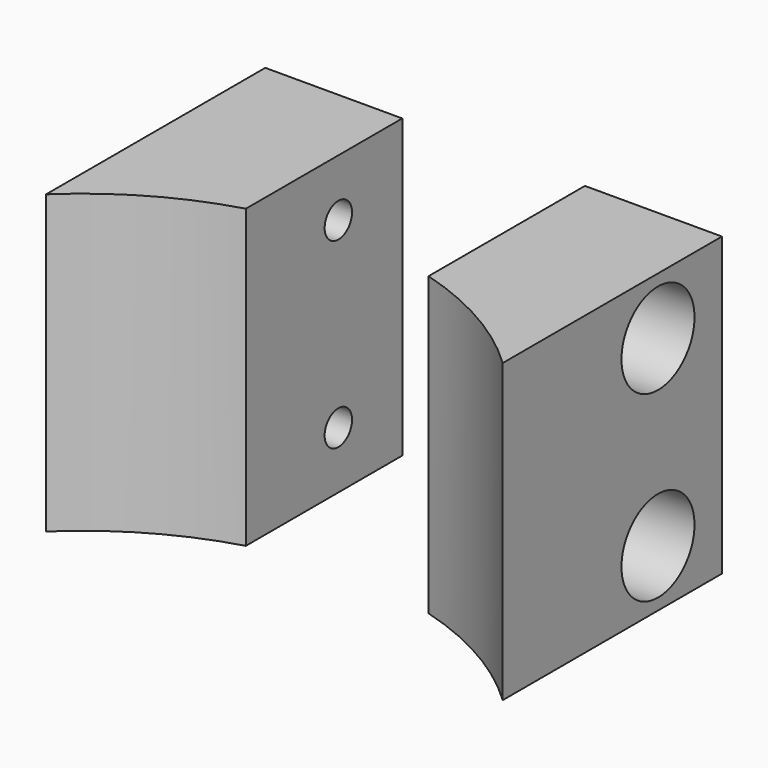
from build123d import *

# Parameters (mm, degrees)
CYLINDER143_R     = 1.5
CYLINDER143_DEPTH = 20
CYLINDER142_R     = 1.5
CYLINDER142_DEPTH = 20
CYLINDER145_R     = 4
CYLINDER145_DEPTH = 20
CYLINDER144_R     = 4
CYLINDER144_DEPTH = 20
CYLINDER139_R     = 1.5
CYLINDER139_DEPTH = 20
CYLINDER138_R     = 1.5
CYLINDER138_DEPTH = 20
CYLINDER141_R     = 4
CYLINDER141_DEPTH = 20
CYLINDER140_R     = 4
CYLINDER140_DEPTH = 20
BOX057_W          = 16
BOX057_H          = 25
BOX057_DEPTH      = 26
CYLINDER136_R     = 29
CYLINDER136_DEPTH = 26
BOX055_W          = 40
BOX055_H          = 30
BOX055_DEPTH      = 26


with BuildPart() as obj1:
    # Cylinder143 → Cylinder143 (new body)
    with BuildSketch(Plane(origin=(4, 38, -11), x_dir=(0, 0, -1), z_dir=(1, 0, 0))):
        Circle(CYLINDER143_R)
    extrude(amount=CYLINDER143_DEPTH)


with BuildPart() as compound045:
    # Cylinder142 → Cylinder142 (new body)
    with BuildSketch(Plane(origin=(4, 38, 5), x_dir=(0, 0, -1), z_dir=(1, 0, 0))):
        Circle(CYLINDER142_R)
    extrude(amount=CYLINDER142_DEPTH)

    # Compound045: union obj1
    add(obj1.part)


with BuildPart() as obj2:
    # Cylinder145 → Cylinder145 (new body)
    with BuildSketch(Plane(origin=(14, 38, -11), x_dir=(0, 0, -1), z_dir=(1, 0, 0))):
        Circle(CYLINDER145_R)
    extrude(amount=CYLINDER145_DEPTH)


with BuildPart() as compound044:
    # Cylinder144 → Cylinder144 (new body)
    with BuildSketch(Plane(origin=(14, 38, 5), x_dir=(0, 0, -1), z_dir=(1, 0, 0))):
        Circle(CYLINDER144_R)
    extrude(amount=CYLINDER144_DEPTH)

    # Compound044: union obj2
    add(obj2.part)


with BuildPart() as obj3:
    # Cylinder139 → Cylinder139 (new body)
    with BuildSketch(Plane(origin=(-24, 38, -11), x_dir=(0, 0, -1), z_dir=(1, 0, 0))):
        Circle(CYLINDER139_R)
    extrude(amount=CYLINDER139_DEPTH)


with BuildPart() as compound043:
    # Cylinder138 → Cylinder138 (new body)
    with BuildSketch(Plane(origin=(-24, 38, 5), x_dir=(0, 0, -1), z_dir=(1, 0, 0))):
        Circle(CYLINDER138_R)
    extrude(amount=CYLINDER138_DEPTH)

    # Compound043: union obj3
    add(obj3.part)


with BuildPart() as obj4:
    # Cylinder141 → Cylinder141 (new body)
    with BuildSketch(Plane(origin=(-34, 38, -11), x_dir=(0, 0, -1), z_dir=(1, 0, 0))):
        Circle(CYLINDER141_R)
    extrude(amount=CYLINDER141_DEPTH)


with BuildPart() as compound042:
    # Cylinder140 → Cylinder140 (new body)
    with BuildSketch(Plane(origin=(-34, 38, 5), x_dir=(0, 0, -1), z_dir=(1, 0, 0))):
        Circle(CYLINDER140_R)
    extrude(amount=CYLINDER140_DEPTH)

    # Compound042: union obj4
    add(obj4.part)


with BuildPart() as krychle057:
    # Box057 → Box057 (new body)
    with BuildSketch(Plane(origin=(-8, 20, -16), x_dir=(1, 0, 0), z_dir=(0, 0, 1))):
        with Locations((8, 12.5)):
            Rectangle(BOX057_W, BOX057_H)
    extrude(amount=BOX057_DEPTH)


with BuildPart() as obj5:
    # Cylinder136 → Cylinder136 (new body)
    with BuildSketch(Plane.XY.offset(-16)):
        Circle(CYLINDER136_R)
    extrude(amount=CYLINDER136_DEPTH)


with BuildPart() as cut051:
    # Box055 → Box055 (new body)
    with BuildSketch(Plane(origin=(-20, 15, -16), x_dir=(1, 0, 0), z_dir=(0, 0, 1))):
        with Locations((20, 15)):
            Rectangle(BOX055_W, BOX055_H)
    extrude(amount=BOX055_DEPTH)

    # Cut045: cut obj5
    add(obj5.part, mode=Mode.SUBTRACT)

    # Cut047: cut Krychle057
    add(krychle057.part, mode=Mode.SUBTRACT)

    # Cut048: cut Compound042
    add(compound042.part, mode=Mode.SUBTRACT)

    # Cut049: cut Compound043
    add(compound043.part, mode=Mode.SUBTRACT)

    # Cut050: cut Compound044
    add(compound044.part, mode=Mode.SUBTRACT)

    # Cut051: cut Compound045
    add(compound045.part, mode=Mode.SUBTRACT)


solid = cut051.part
